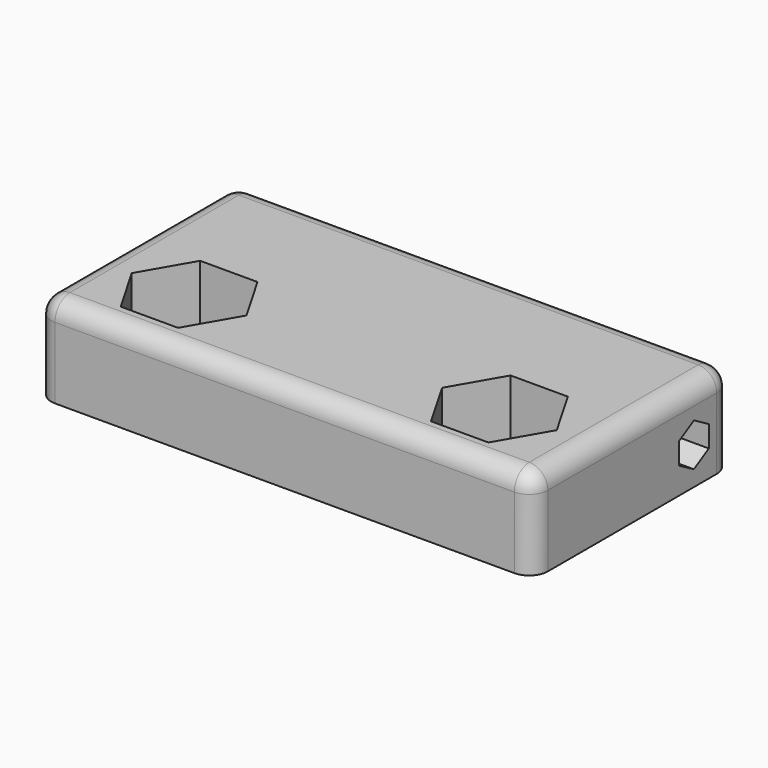
from build123d import *

# Parameters (mm, degrees)
SKETCH_W         = 40
SKETCH_H         = 20
PAD_DEPTH        = 7.25
HOLE_D           = 5
HOLE_DEPTH       = 25
HOLE_CBORE_D     = 6.2
HOLE_CBORE_DEPTH = 1.6
POCKET_DEPTH     = 4.5
POCKET001_DEPTH  = 40.001
FILLET_R         = 1.5


with BuildPart() as part:
    # Sketch → Pad (new body)
    with BuildSketch(Plane.XY):
        with Locations((0, 4)):
            Rectangle(SKETCH_W, SKETCH_H)
    extrude(amount=PAD_DEPTH)

    # Hole
    with Locations(Plane(origin=(0, 0, 0), x_dir=(1, 0, 0), z_dir=(0, 0, -1))):
        with Locations((-12.5, 0), (12.5, 0)):
            CounterBoreHole(HOLE_D / 2, HOLE_CBORE_D / 2, HOLE_CBORE_DEPTH, depth=HOLE_DEPTH)

    # Sketch002 (on Face5 of Hole) → Pocket (cut)
    with BuildSketch(Plane.XY.offset(7.25)):
        Polygon((-10.190599, 4), (-14.809401, 4), (-17.118802, 0), (-14.809401, -4), (-10.190599, -4), (-7.881198, 0), align=None)
        Polygon((10.190599, 4), (7.881198, 0), (10.190599, -4), (14.809401, -4), (17.118802, 0), (14.809401, 4), align=None)
    extrude(amount=-POCKET_DEPTH, mode=Mode.SUBTRACT)

    # Sketch003 (on Face2 of Pocket) → Pocket001 (cut, through all)
    with BuildSketch(Plane(origin=(-20, 0, 0), x_dir=(0, -1, 0), z_dir=(-1, 0, 0))):
        Polygon((-8.7, 3.866025), (-10.2, 4.732051), (-11.7, 3.866025), (-11.7, 2.133975), (-10.2, 1.267949), (-8.7, 2.133975), align=None)
    extrude(amount=-POCKET001_DEPTH, mode=Mode.SUBTRACT)

    # Fillet
    fillet_edges = [part.edges().sort_by_distance(p)[0] for p in [
        (-20, -6, 3.625),
        (-20, 4, 7.25),
        (0, 14, 7.25),
        (0, -6, 7.25),
        (-20, 14, 3.625),
        (20, 4, 7.25),
        (20, -6, 3.625),
        (20, 14, 3.625),
    ]]
    fillet(fillet_edges, radius=FILLET_R)


solid = part.part
